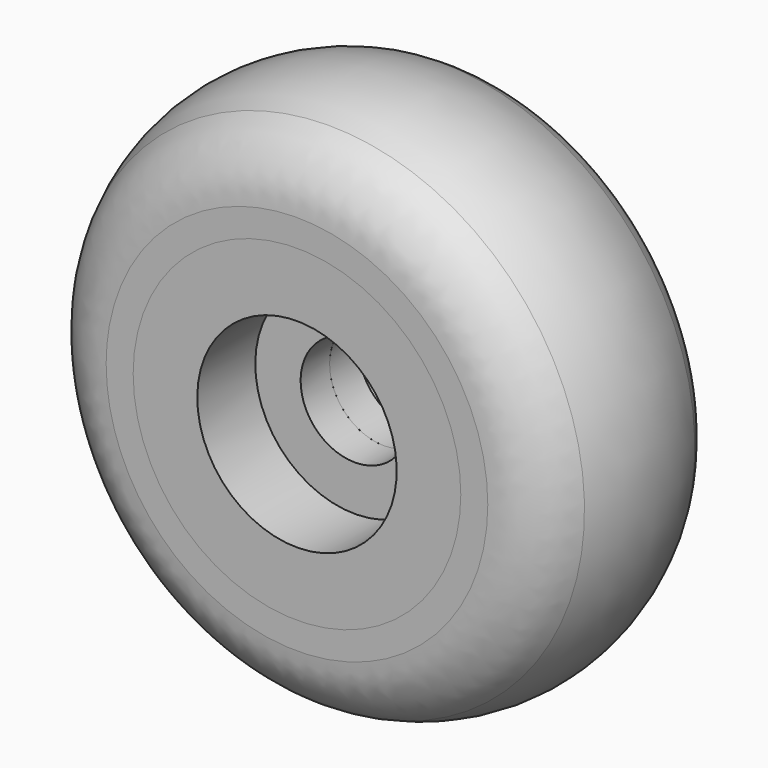
from build123d import *

# Parameters (mm, degrees)
F0_R      = 25
F0_R_2    = 11
F0_R_3    = 6
F1_DEPTH  = 12
F2_DEPTH  = 8
F6_ANGLE  = 180
F7_ANGLE  = 45
F12_R     = 1.75
F13_DEPTH = 24.0010001
F14_R     = 8


with BuildPart() as f1:
    # F0 (on Front) → F1 (new body)
    with BuildSketch(Plane.XZ):
        Circle(F0_R)
        Circle(F0_R_2, mode=Mode.SUBTRACT)
        Circle(F0_R_2)
        Circle(F0_R_3, mode=Mode.SUBTRACT)
    extrude(amount=F1_DEPTH)

    # F0 (on Front) → F2 (cut)
    with BuildSketch(Plane.XZ):
        Circle(F0_R_2)
        Circle(F0_R_3, mode=Mode.SUBTRACT)
    extrude(amount=F2_DEPTH, mode=Mode.SUBTRACT)


with BuildPart() as f6_1:
    # F6: copy of F1
    add(f1.part.rotate(Axis((1.772726886, -12, 0), (1, 0, 0)), F6_ANGLE))


with BuildPart() as f6_1_1:
    # F7: moved
    add(f6_1.part.rotate(Axis((0, -9.6377022564, 0), (0, -1, 0)), F7_ANGLE))


with BuildPart() as f9_tool:
    # F8 (on Top) → F9 (revolve)
    with BuildSketch(Plane.XY):
        Polygon((-25, 0), (-25, -12), (-18.0717967697, 0), align=None)
        Polygon((-18.0717967697, -24), (-25, -12), (-25, -24), align=None)
    revolve(axis=Axis((0, -9.6377022564, 0), (0, -1, 0)))


with BuildPart() as f1_1:
    add(f1.part)

    # F9: cut by f9_tool
    add(f9_tool.part, mode=Mode.SUBTRACT)

    # F12 (on face) → F13 (cut, through all)
    with BuildSketch(Plane(origin=(0, 0, 0), x_dir=(-1, 0, 0), z_dir=(0, 1, 0))):
        with Locations((0, -14.5358983849)):
            Circle(F12_R)
        with Locations((8.5439866994, -11.7597888219)):
            Circle(F12_R)
        with Locations((13.8244608791, -4.4918396294)):
            Circle(F12_R)
        with Locations((13.8244608791, 4.4918396294)):
            Circle(F12_R)
        with Locations((8.5439866994, 11.7597888219)):
            Circle(F12_R)
        with Locations((0, 14.5358983849)):
            Circle(F12_R)
        with Locations((-8.5439866994, 11.7597888219)):
            Circle(F12_R)
        with Locations((-13.8244608791, 4.4918396294)):
            Circle(F12_R)
        with Locations((-13.8244608791, -4.4918396294)):
            Circle(F12_R)
        with Locations((-8.5439866994, -11.7597888219)):
            Circle(F12_R)
    extrude(amount=-F13_DEPTH, mode=Mode.SUBTRACT)


with BuildPart() as f6_1_2:
    add(f6_1_1.part)

    # F9: cut by f9_tool
    add(f9_tool.part, mode=Mode.SUBTRACT)


with BuildPart() as f11:
    # F10 (on Top) → F11 (revolve)
    with BuildSketch(Plane.XY):
        with BuildLine():
            Line((-25, -12), (-18.0717967697, 0))
            Line((-18.0717967697, 0), (-25, 0))
            ThreePointArc((-25, 0), (-30, -12), (-25, -24))
            Line((-25, -24), (-18.0717967697, -24))
            Line((-18.0717967697, -24), (-25, -12))
        make_face()
    revolve(axis=Axis((0, -9.6377022564, 0), (0, -1, 0)))

    # F14
    f14_edges = [f11.edges().sort_by_distance(p)[0] for p in [
        (25, -24, 0),
        (25, 0, 0),
    ]]
    fillet(f14_edges, radius=F14_R)


solid = Compound([f1_1.part, f6_1_2.part, f11.part])
